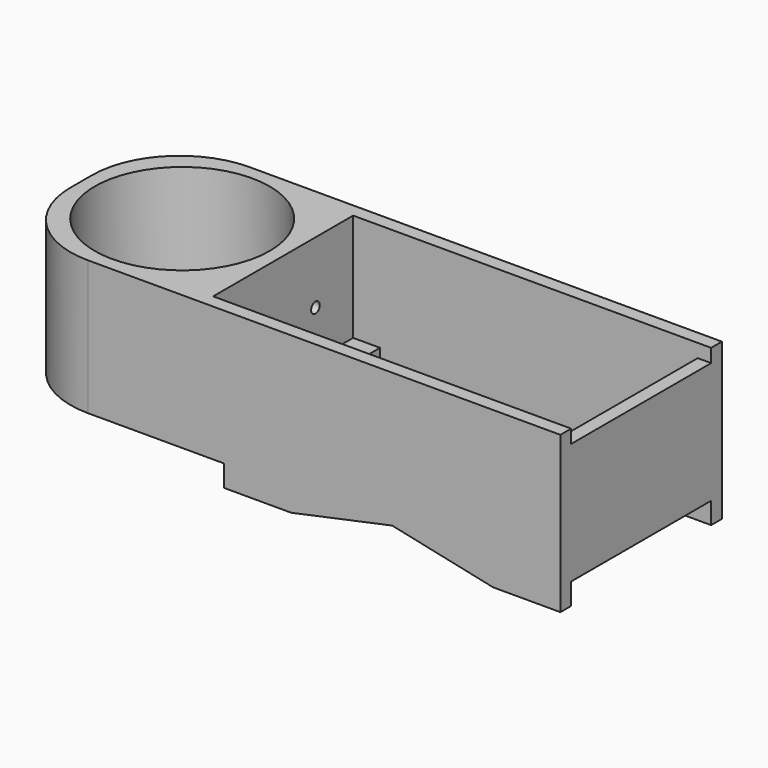
from build123d import *

# Parameters (mm, degrees)
F0_W      = 208
F0_H      = 50
F1_DEPTH  = 37.5
F2_R      = 32.5
F3_DEPTH  = 50.001
F4_W      = 128
F4_H      = 65
F5_DEPTH  = 45
F6_W      = 65
F6_H      = 5
F7_DEPTH  = 5
F8_W      = 10
F8_H      = 10
F9_DEPTH  = 5
F10_R     = 2
F11_DEPTH = 9.8017221311
F12_R     = 32.5
F13_W     = 125
F13_H     = 5
F14_DEPTH = 8
F16_DEPTH = 75.001


with BuildPart() as f1:
    # F0 (on Front) → F1 (new body, symmetric)
    with BuildSketch(Plane.XZ):
        Rectangle(F0_W, F0_H)
    extrude(amount=F1_DEPTH, both=True)

    # F2 (on face) → F3 (cut, through all)
    with BuildSketch(Plane.XY.offset(25)):
        with Locations((-66.5, 0)):
            Circle(F2_R)
    extrude(amount=-F3_DEPTH, mode=Mode.SUBTRACT)

    # F4 (on face) → F5 (cut)
    with BuildSketch(Plane.XY.offset(25)):
        with Locations((35, 0)):
            Rectangle(F4_W, F4_H)
    extrude(amount=-F5_DEPTH, mode=Mode.SUBTRACT)

    # F6 (on face) → F7 (cut, through all)
    with BuildSketch(Plane.YZ.offset(104)):
        with Locations((0, 22.5)):
            Rectangle(F6_W, F6_H)
    extrude(amount=-F7_DEPTH, mode=Mode.SUBTRACT)

    # F8 (on face) → F9 (join)
    with BuildSketch(Plane.XY.offset(-20)):
        with Locations((-24, 27.5)):
            Rectangle(F8_W, F8_H)
        with Locations((94, 27.5)):
            Rectangle(F8_W, F8_H)
        with Locations((-24, -27.5)):
            Rectangle(F8_W, F8_H)
        with Locations((94, -27.5)):
            Rectangle(F8_W, F8_H)
    extrude(amount=F9_DEPTH)

    # F10 (on face) → F11 (cut, through all)
    with BuildSketch(Plane.YZ.offset(-29)):
        with Locations((-15, 2)):
            Circle(F10_R)
        with Locations((15, 2)):
            Circle(F10_R)
    extrude(amount=-F11_DEPTH, mode=Mode.SUBTRACT)

    # F12
    f12_edges = [f1.edges().sort_by_distance(p)[0] for p in [
        (-104, -37.5, 0),
        (-104, 37.5, 0),
    ]]
    fillet(f12_edges, radius=F12_R)

    # F13 (on face) → F14 (join)
    with BuildSketch(Plane(origin=(0, 0, -25), x_dir=(1, 0, 0), z_dir=(0, 0, -1))):
        with Locations((41.5, 35)):
            Rectangle(F13_W, F13_H)
        with Locations((41.5, -35)):
            Rectangle(F13_W, F13_H)
    extrude(amount=F14_DEPTH)

    # F15 (on face) → F16 (cut, through all)
    with BuildSketch(Plane.XZ.offset(37.5)):
        Polygon((41.5, -25), (4, -33), (79, -33), align=None)
    extrude(amount=-F16_DEPTH, mode=Mode.SUBTRACT)


solid = f1.part
